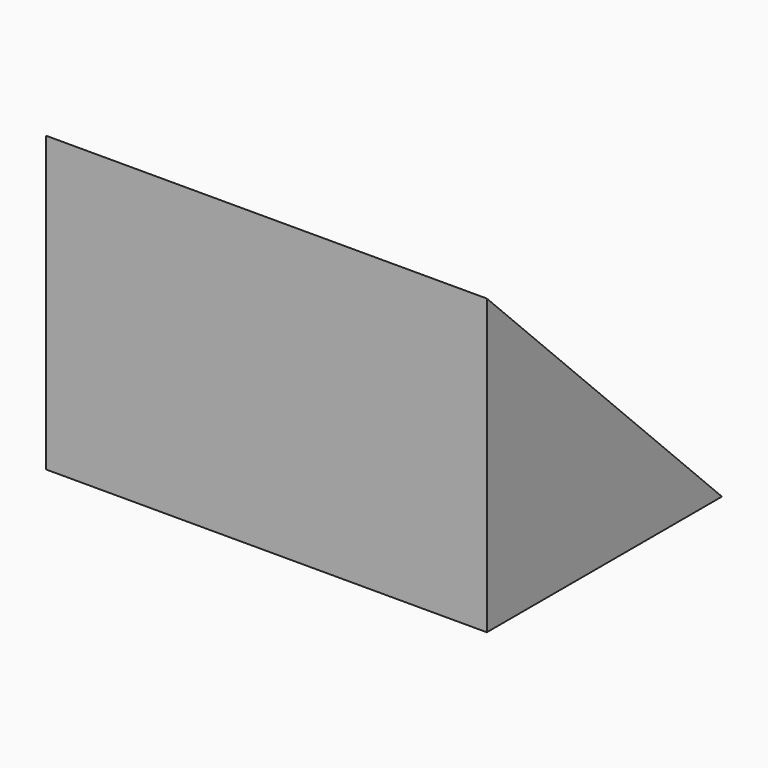
from build123d import *

# Parameters (mm, degrees)
F0_W     = 25.4
F0_H     = 12.7
F1_DEPTH = 25.4
F2_DEPTH = 12.7
F4_DEPTH = 38.1


with BuildPart() as f1:
    # F0 (on Top) → F1 (new body)
    with BuildSketch(Plane.XY):
        Polygon((6.35, 0), (0, 0), (0, -25.4), (38.1, -25.4), (38.1, 0), (31.75, 0), (31.75, -12.7), (6.35, -12.7), align=None)
        with Locations((19.05, -6.35)):
            Rectangle(F0_W, F0_H)
    extrude(amount=F1_DEPTH)

    # F0 (on Top) → F2 (cut)
    with BuildSketch(Plane.XY):
        with Locations((19.05, -6.35)):
            Rectangle(F0_W, F0_H)
    extrude(amount=F2_DEPTH, mode=Mode.SUBTRACT)

    # F3 (on face) → F4 (cut)
    with BuildSketch(Plane(origin=(0, 0, 0), x_dir=(0, -1, 0), z_dir=(-1, 0, 0))):
        Polygon((0, 25.4), (0, 0), (25.4, 25.4), align=None)
    extrude(amount=-F4_DEPTH, mode=Mode.SUBTRACT)


solid = f1.part
